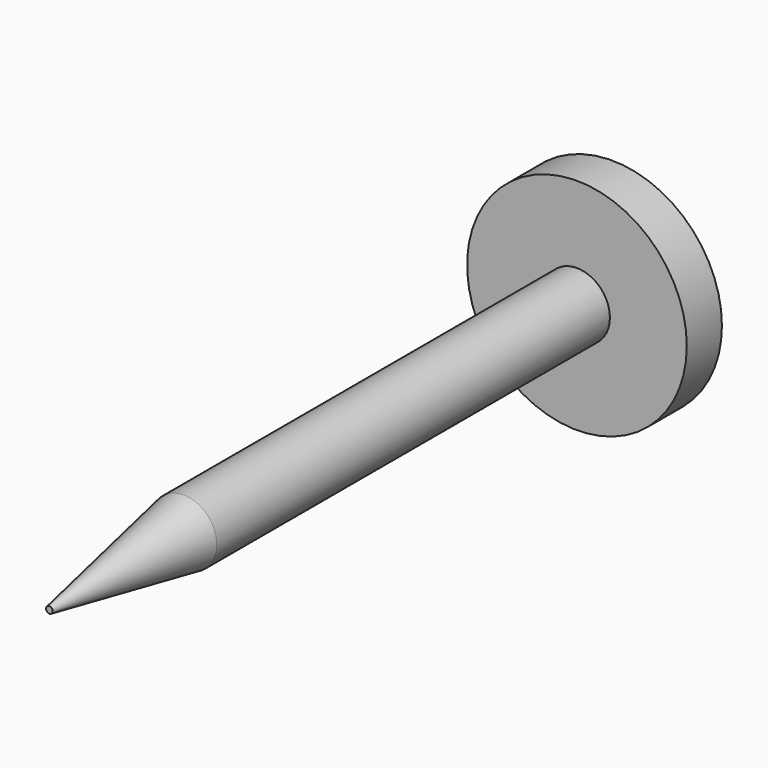
from build123d import *


with BuildPart() as f1:
    # F0 (on Top) → F1 (revolve)
    with BuildSketch(Plane.XY):
        Polygon((0.75, 51.823962), (0, 51.823962), (0, 36.813749), (0.075884, 36.813749), (0.75, 40.636849), align=None)
        Polygon((2.5, 52.823962), (0, 52.823962), (0, 51.823962), (0.75, 51.823962), (2.5, 51.823962), align=None)
    revolve(axis=Axis((0, 56.813749, 0), (0, 1, 0)))


solid = f1.part
